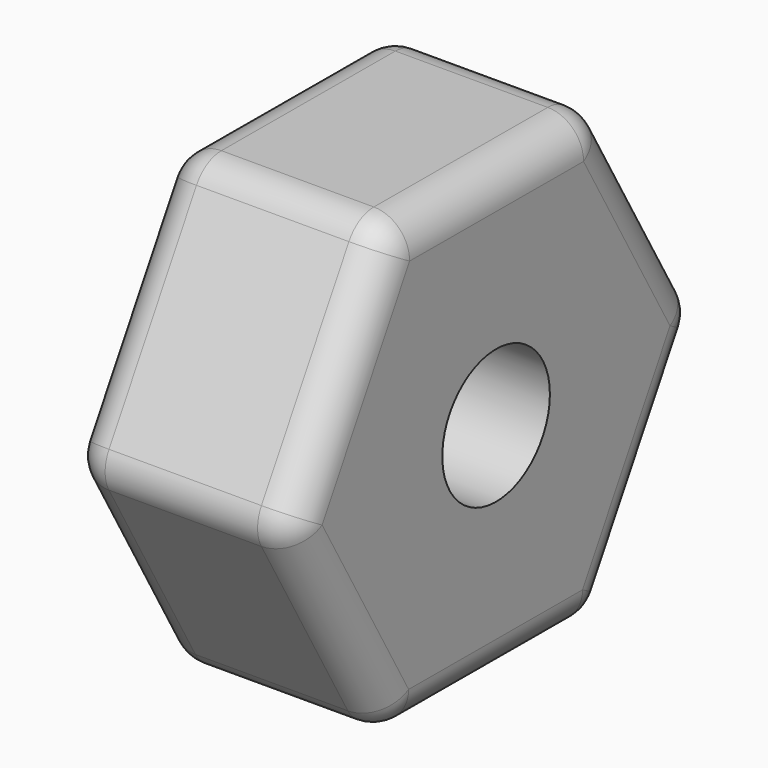
from build123d import *

# Parameters (mm, degrees)
F0_R     = 1.5
F1_DEPTH = 5
F2_R     = 0.8


with BuildPart() as f1:
    # F0 (on Right) → F1 (new body)
    with BuildSketch(Plane.YZ):
        Polygon((2.870718, -5.009223), (5.773473, -0.018497), (2.902755, 4.990726), (-2.870718, 5.009223), (-5.773473, 0.018497), (-2.902755, -4.990726), align=None)
        Circle(F0_R, mode=Mode.SUBTRACT)
    extrude(amount=F1_DEPTH)

    # F2
    f2_edges = [f1.edges().sort_by_distance(p)[0] for p in [
        (2.5, -2.870718, 5.009223),
        (2.5, 2.902755, 4.990726),
        (2.5, -5.773473, 0.018497),
        (2.5, -2.902755, -4.990726),
        (2.5, 2.870718, -5.009223),
        (2.5, 5.773473, -0.018497),
        (5, 4.338114, 2.486115),
        (0, 4.338114, 2.486115),
        (5, 4.322096, -2.51386),
        (0, 4.322096, -2.51386),
        (5, -0.016019, -4.999974),
        (0, -0.016019, -4.999974),
        (5, -4.338114, -2.486115),
        (0, -4.338114, -2.486115),
        (5, -4.322096, 2.51386),
        (0, -4.322096, 2.51386),
        (0, 0.016019, 4.999974),
        (5, 0.016019, 4.999974),
    ]]
    fillet(f2_edges, radius=F2_R)


solid = f1.part
